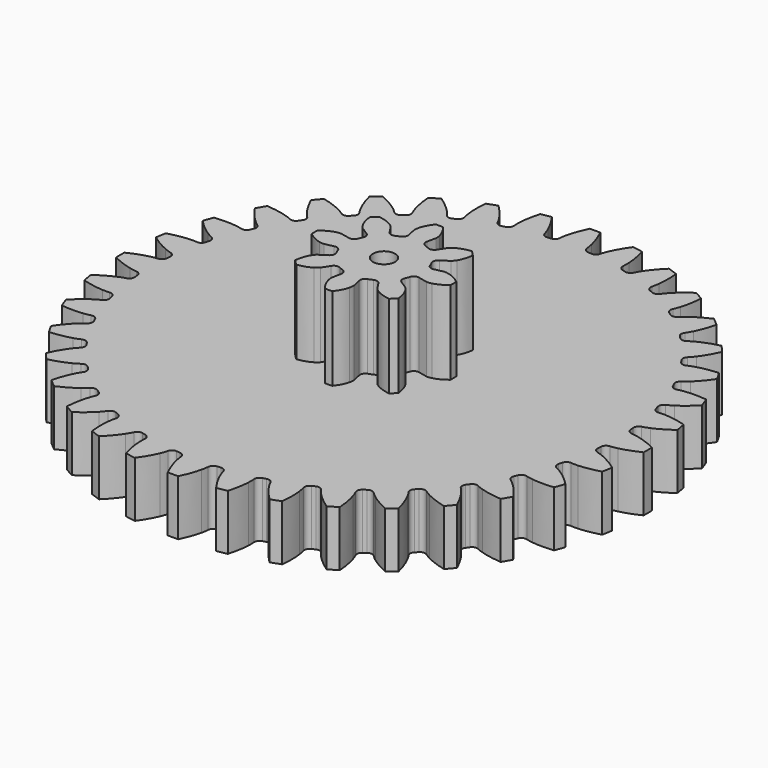
from build123d import *

# Parameters (mm, degrees)
PAD001_DEPTH         = 10
PAD002_DEPTH         = 15
SKETCH002_R          = 2
POCKET001_DEPTH      = 10.001
POCKET001_DEPTH_BACK = 15.001


with BuildPart() as part:
    # InvoluteGear001 → Pad001 (new body)
    with BuildSketch(Plane.XY):
        with BuildLine():
            add(Edge.make_bspline(
                [(42.63134, -2.459207), (42.913539, -2.435969), (43.336154, -2.380973), (43.893235, -2.253686)],
                knots=[0, 0, 0, 0, 1, 1, 1, 1], degree=3))
            add(Edge.make_bspline(
                [(43.893235, -2.253686), (44.783579, -2.049807), (46.002896, -1.664571), (47.492369, -0.940242)],
                knots=[0, 0, 0, 0, 1, 1, 1, 1], degree=3))
            ThreePointArc((47.492369, -0.940242), (47.500838, 0.000316), (47.490681, 0.940857))
            add(Edge.make_bspline(
                [(47.490681, 0.940857), (46.002896, 1.664571), (44.783579, 2.049807), (43.893235, 2.253686)],
                knots=[0, 0, 0, 0, 1, 1, 1, 1], degree=3))
            add(Edge.make_bspline(
                [(43.893235, 2.253686), (43.336154, 2.380973), (42.913539, 2.435969), (42.631611, 2.459172)],
                knots=[0, 0, 0, 0, 1, 1, 1, 1], degree=3))
            ThreePointArc((42.631611, 2.459172), (42.023456, 2.729743), (41.742145, 3.333006))
            ThreePointArc((41.742145, 3.333006), (41.715653, 3.649647), (41.686759, 3.966077))
            ThreePointArc((41.686759, 3.966077), (41.858969, 4.608903), (42.41071, 4.981008))
            add(Edge.make_bspline(
                [(42.41071, 4.981008), (42.684588, 5.052897), (43.091232, 5.180444), (43.617747, 5.402533)],
                knots=[0, 0, 0, 0, 1, 1, 1, 1], degree=3))
            add(Edge.make_bspline(
                [(43.617747, 5.402533), (44.459161, 5.757922), (45.593058, 6.349037), (46.934125, 7.321006)],
                knots=[0, 0, 0, 0, 1, 1, 1, 1], degree=3))
            ThreePointArc((46.934125, 7.321006), (46.779139, 8.248745), (46.605813, 9.173234))
            add(Edge.make_bspline(
                [(46.605813, 9.173234), (45.014959, 9.627601), (43.747271, 9.795252), (42.83505, 9.841428)],
                knots=[0, 0, 0, 0, 1, 1, 1, 1], degree=3))
            add(Edge.make_bspline(
                [(42.83505, 9.841428), (42.264329, 9.870045), (41.838585, 9.850819), (41.556911, 9.824713)],
                knots=[0, 0, 0, 0, 1, 1, 1, 1], degree=3))
            ThreePointArc((41.556911, 9.824713), (40.91101, 9.985569), (40.529218, 10.530818))
            ThreePointArc((40.529218, 10.530818), (40.448144, 10.838048), (40.364741, 11.144653))
            ThreePointArc((40.364741, 11.144653), (40.422709, 11.807617), (40.901453, 12.269878))
            add(Edge.make_bspline(
                [(40.901453, 12.269878), (41.158687, 12.388233), (41.537004, 12.584455), (42.016955, 12.894598)],
                knots=[0, 0, 0, 0, 1, 1, 1, 1], degree=3))
            add(Edge.make_bspline(
                [(42.016955, 12.894598), (42.783874, 13.390698), (43.797899, 14.169732), (44.94981, 15.359809)],
                knots=[0, 0, 0, 0, 1, 1, 1, 1], degree=3))
            ThreePointArc((44.94981, 15.359809), (44.636079, 16.24654), (44.30485, 17.126886))
            add(Edge.make_bspline(
                [(44.30485, 17.126886), (42.659265, 17.298102), (41.381724, 17.243074), (40.475343, 17.130143)],
                knots=[0, 0, 0, 0, 1, 1, 1, 1], degree=3))
            add(Edge.make_bspline(
                [(40.475343, 17.130143), (39.908323, 17.05922), (39.492386, 16.966357), (39.219524, 16.891735)],
                knots=[0, 0, 0, 0, 1, 1, 1, 1], degree=3))
            ThreePointArc((39.219524, 16.891735), (38.555504, 16.937988), (38.084831, 17.408656))
            ThreePointArc((38.084831, 17.408656), (37.951639, 17.69714), (37.816261, 17.984604))
            ThreePointArc((37.816261, 17.984604), (37.758226, 18.647563), (38.149426, 19.185934))
            add(Edge.make_bspline(
                [(38.149426, 19.185934), (38.3822, 19.347159), (38.720696, 19.606094), (39.1395, 19.994868)],
                knots=[0, 0, 0, 0, 1, 1, 1, 1], degree=3))
            add(Edge.make_bspline(
                [(39.1395, 19.994868), (39.80862, 20.616605), (40.671962, 21.559887), (41.599719, 22.931911)],
                knots=[0, 0, 0, 0, 1, 1, 1, 1], degree=3))
            ThreePointArc((41.599719, 22.931911), (41.136774, 23.750693), (40.657708, 24.560147))
            add(Edge.make_bspline(
                [(40.657708, 24.560147), (39.007391, 24.443008), (37.758814, 24.166974), (36.885814, 23.898367)],
                knots=[0, 0, 0, 0, 1, 1, 1, 1], degree=3))
            add(Edge.make_bspline(
                [(36.885814, 23.898367), (36.339724, 23.73006), (35.946231, 23.566381), (35.690473, 23.445511)],
                knots=[0, 0, 0, 0, 1, 1, 1, 1], degree=3))
            ThreePointArc((35.690473, 23.445511), (35.028509, 23.375755), (34.483255, 23.757541))
            ThreePointArc((34.483255, 23.757541), (34.301992, 24.018513), (34.118754, 24.278103))
            ThreePointArc((34.118754, 24.278103), (33.946479, 24.920911), (34.238248, 25.519035))
            add(Edge.make_bspline(
                [(34.238248, 25.519035), (34.439489, 25.718231), (34.727879, 26.032012), (35.072811, 26.487604)],
                knots=[0, 0, 0, 0, 1, 1, 1, 1], degree=3))
            add(Edge.make_bspline(
                [(35.072811, 26.487604), (35.623802, 27.216087), (36.310228, 28.294956), (36.985641, 29.807239)],
                knots=[0, 0, 0, 0, 1, 1, 1, 1], degree=3))
            ThreePointArc((36.985641, 29.807239), (36.38755, 30.533192), (35.775201, 31.24716))
            add(Edge.make_bspline(
                [(35.775201, 31.24716), (34.170297, 30.845227), (32.988622, 30.356573), (32.175528, 29.940452)],
                knots=[0, 0, 0, 0, 1, 1, 1, 1], degree=3))
            add(Edge.make_bspline(
                [(32.175528, 29.940452), (31.66696, 29.679874), (31.307868, 29.450352), (31.076984, 29.286906)],
                knots=[0, 0, 0, 0, 1, 1, 1, 1], degree=3))
            ThreePointArc((31.076984, 29.286906), (30.43719, 29.103261), (29.833923, 29.384565))
            ThreePointArc((29.833923, 29.384565), (29.610096, 29.610096), (29.384565, 29.833923))
            ThreePointArc((29.384565, 29.833923), (29.103285, 30.437051), (29.286759, 31.076753))
            add(Edge.make_bspline(
                [(29.286759, 31.076753), (29.450352, 31.307868), (29.679874, 31.66696), (29.940452, 32.175528)],
                knots=[0, 0, 0, 0, 1, 1, 1, 1], degree=3))
            add(Edge.make_bspline(
                [(29.940452, 32.175528), (30.356573, 32.988622), (30.845227, 34.170297), (31.247773, 35.77689)],
                knots=[0, 0, 0, 0, 1, 1, 1, 1], degree=3))
            ThreePointArc((31.247773, 35.77689), (30.532708, 36.387956), (29.805683, 36.984744))
            add(Edge.make_bspline(
                [(29.805683, 36.984744), (28.294956, 36.310228), (27.216087, 35.623802), (26.487604, 35.072811)],
                knots=[0, 0, 0, 0, 1, 1, 1, 1], degree=3))
            add(Edge.make_bspline(
                [(26.487604, 35.072811), (26.032012, 34.727879), (25.718231, 34.439489), (25.519237, 34.238434)],
                knots=[0, 0, 0, 0, 1, 1, 1, 1], degree=3))
            ThreePointArc((25.519237, 34.238434), (24.921052, 33.94648), (24.278103, 34.118754))
            ThreePointArc((24.278103, 34.118754), (24.018513, 34.301992), (23.757541, 34.483255))
            ThreePointArc((23.757541, 34.483255), (23.375802, 35.028376), (23.445405, 35.69022))
            add(Edge.make_bspline(
                [(23.445405, 35.69022), (23.566381, 35.946231), (23.73006, 36.339724), (23.898367, 36.885814)],
                knots=[0, 0, 0, 0, 1, 1, 1, 1], degree=3))
            add(Edge.make_bspline(
                [(23.898367, 36.885814), (24.166974, 37.758814), (24.443008, 39.007391), (24.560458, 40.659477)],
                knots=[0, 0, 0, 0, 1, 1, 1, 1], degree=3))
            ThreePointArc((24.560458, 40.659477), (23.750145, 41.13709), (22.930534, 41.598565))
            add(Edge.make_bspline(
                [(22.930534, 41.598565), (21.559887, 40.671962), (20.616605, 39.80862), (19.994868, 39.1395)],
                knots=[0, 0, 0, 0, 1, 1, 1, 1], degree=3))
            add(Edge.make_bspline(
                [(19.994868, 39.1395), (19.606094, 38.720696), (19.347159, 38.3822), (19.186101, 38.149644)],
                knots=[0, 0, 0, 0, 1, 1, 1, 1], degree=3))
            ThreePointArc((19.186101, 38.149644), (18.647701, 37.758252), (17.984604, 37.816261))
            ThreePointArc((17.984604, 37.816261), (17.69714, 37.951639), (17.408656, 38.084831))
            ThreePointArc((17.408656, 38.084831), (16.938057, 38.555382), (16.891675, 39.219257))
            add(Edge.make_bspline(
                [(16.891675, 39.219257), (16.966357, 39.492386), (17.05922, 39.908323), (17.130143, 40.475343)],
                knots=[0, 0, 0, 0, 1, 1, 1, 1], degree=3))
            add(Edge.make_bspline(
                [(17.130143, 40.475343), (17.243074, 41.381724), (17.298102, 42.659265), (17.126885, 44.306647)],
                knots=[0, 0, 0, 0, 1, 1, 1, 1], degree=3))
            ThreePointArc((17.126885, 44.306647), (16.245946, 44.636295), (15.358653, 44.948435))
            add(Edge.make_bspline(
                [(15.358653, 44.948435), (14.169732, 43.797899), (13.390698, 42.783874), (12.894598, 42.016955)],
                knots=[0, 0, 0, 0, 1, 1, 1, 1], degree=3))
            add(Edge.make_bspline(
                [(12.894598, 42.016955), (12.584455, 41.537004), (12.388233, 41.158687), (12.270004, 40.901697)],
                knots=[0, 0, 0, 0, 1, 1, 1, 1], degree=3))
            ThreePointArc((12.270004, 40.901697), (11.807749, 40.422758), (11.144653, 40.364741))
            ThreePointArc((11.144653, 40.364741), (10.838048, 40.448144), (10.530818, 40.529218))
            ThreePointArc((10.530818, 40.529218), (9.985658, 40.910902), (9.8247, 41.556637))
            add(Edge.make_bspline(
                [(9.8247, 41.556637), (9.850819, 41.838585), (9.870045, 42.264329), (9.841428, 42.83505)],
                knots=[0, 0, 0, 0, 1, 1, 1, 1], degree=3))
            add(Edge.make_bspline(
                [(9.841428, 42.83505), (9.795252, 43.747271), (9.627601, 45.014959), (9.172921, 46.607582)],
                knots=[0, 0, 0, 0, 1, 1, 1, 1], degree=3))
            ThreePointArc((9.172921, 46.607582), (8.248123, 46.779248), (7.320107, 46.932569))
            add(Edge.make_bspline(
                [(7.320107, 46.932569), (6.349037, 45.593058), (5.757922, 44.459161), (5.402533, 43.617747)],
                knots=[0, 0, 0, 0, 1, 1, 1, 1], degree=3))
            add(Edge.make_bspline(
                [(5.402533, 43.617747), (5.180444, 43.091232), (5.052897, 42.684588), (4.98109, 42.410972)],
                knots=[0, 0, 0, 0, 1, 1, 1, 1], degree=3))
            ThreePointArc((4.98109, 42.410972), (4.609024, 41.85904), (3.966077, 41.686759))
            ThreePointArc((3.966077, 41.686759), (3.649647, 41.715653), (3.333006, 41.742145))
            ThreePointArc((3.333006, 41.742145), (2.72985, 42.023364), (2.459207, 42.63134))
            add(Edge.make_bspline(
                [(2.459207, 42.63134), (2.435969, 42.913539), (2.380973, 43.336154), (2.253686, 43.893235)],
                knots=[0, 0, 0, 0, 1, 1, 1, 1], degree=3))
            add(Edge.make_bspline(
                [(2.253686, 43.893235), (2.049807, 44.783579), (1.664571, 46.002896), (0.940242, 47.492369)],
                knots=[0, 0, 0, 0, 1, 1, 1, 1], degree=3))
            ThreePointArc((0.940242, 47.492369), (-0.000316, 47.500838), (-0.940857, 47.490681))
            add(Edge.make_bspline(
                [(-0.940857, 47.490681), (-1.664571, 46.002896), (-2.049807, 44.783579), (-2.253686, 43.893235)],
                knots=[0, 0, 0, 0, 1, 1, 1, 1], degree=3))
            add(Edge.make_bspline(
                [(-2.253686, 43.893235), (-2.380973, 43.336154), (-2.435969, 42.913539), (-2.459172, 42.631611)],
                knots=[0, 0, 0, 0, 1, 1, 1, 1], degree=3))
            ThreePointArc((-2.459172, 42.631611), (-2.729743, 42.023456), (-3.333006, 41.742145))
            ThreePointArc((-3.333006, 41.742145), (-3.649647, 41.715653), (-3.966077, 41.686759))
            ThreePointArc((-3.966077, 41.686759), (-4.608903, 41.858969), (-4.981008, 42.41071))
            add(Edge.make_bspline(
                [(-4.981008, 42.41071), (-5.052897, 42.684588), (-5.180444, 43.091232), (-5.402533, 43.617747)],
                knots=[0, 0, 0, 0, 1, 1, 1, 1], degree=3))
            add(Edge.make_bspline(
                [(-5.402533, 43.617747), (-5.757922, 44.459161), (-6.349037, 45.593058), (-7.321006, 46.934125)],
                knots=[0, 0, 0, 0, 1, 1, 1, 1], degree=3))
            ThreePointArc((-7.321006, 46.934125), (-8.248745, 46.779139), (-9.173234, 46.605813))
            add(Edge.make_bspline(
                [(-9.173234, 46.605813), (-9.627601, 45.014959), (-9.795252, 43.747271), (-9.841428, 42.83505)],
                knots=[0, 0, 0, 0, 1, 1, 1, 1], degree=3))
            add(Edge.make_bspline(
                [(-9.841428, 42.83505), (-9.870045, 42.264329), (-9.850819, 41.838585), (-9.824713, 41.556911)],
                knots=[0, 0, 0, 0, 1, 1, 1, 1], degree=3))
            ThreePointArc((-9.824713, 41.556911), (-9.985569, 40.91101), (-10.530818, 40.529218))
            ThreePointArc((-10.530818, 40.529218), (-10.838048, 40.448144), (-11.144653, 40.364741))
            ThreePointArc((-11.144653, 40.364741), (-11.807617, 40.422709), (-12.269878, 40.901453))
            add(Edge.make_bspline(
                [(-12.269878, 40.901453), (-12.388233, 41.158687), (-12.584455, 41.537004), (-12.894598, 42.016955)],
                knots=[0, 0, 0, 0, 1, 1, 1, 1], degree=3))
            add(Edge.make_bspline(
                [(-12.894598, 42.016955), (-13.390698, 42.783874), (-14.169732, 43.797899), (-15.359809, 44.94981)],
                knots=[0, 0, 0, 0, 1, 1, 1, 1], degree=3))
            ThreePointArc((-15.359809, 44.94981), (-16.24654, 44.636079), (-17.126886, 44.30485))
            add(Edge.make_bspline(
                [(-17.126886, 44.30485), (-17.298102, 42.659265), (-17.243074, 41.381724), (-17.130143, 40.475343)],
                knots=[0, 0, 0, 0, 1, 1, 1, 1], degree=3))
            add(Edge.make_bspline(
                [(-17.130143, 40.475343), (-17.05922, 39.908323), (-16.966357, 39.492386), (-16.891735, 39.219524)],
                knots=[0, 0, 0, 0, 1, 1, 1, 1], degree=3))
            ThreePointArc((-16.891735, 39.219524), (-16.937988, 38.555504), (-17.408656, 38.084831))
            ThreePointArc((-17.408656, 38.084831), (-17.69714, 37.951639), (-17.984604, 37.816261))
            ThreePointArc((-17.984604, 37.816261), (-18.647563, 37.758226), (-19.185934, 38.149426))
            add(Edge.make_bspline(
                [(-19.185934, 38.149426), (-19.347159, 38.3822), (-19.606094, 38.720696), (-19.994868, 39.1395)],
                knots=[0, 0, 0, 0, 1, 1, 1, 1], degree=3))
            add(Edge.make_bspline(
                [(-19.994868, 39.1395), (-20.616605, 39.80862), (-21.559887, 40.671962), (-22.931911, 41.599719)],
                knots=[0, 0, 0, 0, 1, 1, 1, 1], degree=3))
            ThreePointArc((-22.931911, 41.599719), (-23.750693, 41.136774), (-24.560147, 40.657708))
            add(Edge.make_bspline(
                [(-24.560147, 40.657708), (-24.443008, 39.007391), (-24.166974, 37.758814), (-23.898367, 36.885814)],
                knots=[0, 0, 0, 0, 1, 1, 1, 1], degree=3))
            add(Edge.make_bspline(
                [(-23.898367, 36.885814), (-23.73006, 36.339724), (-23.566381, 35.946231), (-23.445511, 35.690473)],
                knots=[0, 0, 0, 0, 1, 1, 1, 1], degree=3))
            ThreePointArc((-23.445511, 35.690473), (-23.375755, 35.028509), (-23.757541, 34.483255))
            ThreePointArc((-23.757541, 34.483255), (-24.018513, 34.301992), (-24.278103, 34.118754))
            ThreePointArc((-24.278103, 34.118754), (-24.920911, 33.946479), (-25.519035, 34.238248))
            add(Edge.make_bspline(
                [(-25.519035, 34.238248), (-25.718231, 34.439489), (-26.032012, 34.727879), (-26.487604, 35.072811)],
                knots=[0, 0, 0, 0, 1, 1, 1, 1], degree=3))
            add(Edge.make_bspline(
                [(-26.487604, 35.072811), (-27.216087, 35.623802), (-28.294956, 36.310228), (-29.807239, 36.985641)],
                knots=[0, 0, 0, 0, 1, 1, 1, 1], degree=3))
            ThreePointArc((-29.807239, 36.985641), (-30.533192, 36.38755), (-31.24716, 35.775201))
            add(Edge.make_bspline(
                [(-31.24716, 35.775201), (-30.845227, 34.170297), (-30.356573, 32.988622), (-29.940452, 32.175528)],
                knots=[0, 0, 0, 0, 1, 1, 1, 1], degree=3))
            add(Edge.make_bspline(
                [(-29.940452, 32.175528), (-29.679874, 31.66696), (-29.450352, 31.307868), (-29.286906, 31.076984)],
                knots=[0, 0, 0, 0, 1, 1, 1, 1], degree=3))
            ThreePointArc((-29.286906, 31.076984), (-29.103261, 30.43719), (-29.384565, 29.833923))
            ThreePointArc((-29.384565, 29.833923), (-29.610096, 29.610096), (-29.833923, 29.384565))
            ThreePointArc((-29.833923, 29.384565), (-30.437051, 29.103285), (-31.076753, 29.286759))
            add(Edge.make_bspline(
                [(-31.076753, 29.286759), (-31.307868, 29.450352), (-31.66696, 29.679874), (-32.175528, 29.940452)],
                knots=[0, 0, 0, 0, 1, 1, 1, 1], degree=3))
            add(Edge.make_bspline(
                [(-32.175528, 29.940452), (-32.988622, 30.356573), (-34.170297, 30.845227), (-35.77689, 31.247773)],
                knots=[0, 0, 0, 0, 1, 1, 1, 1], degree=3))
            ThreePointArc((-35.77689, 31.247773), (-36.387956, 30.532708), (-36.984744, 29.805683))
            add(Edge.make_bspline(
                [(-36.984744, 29.805683), (-36.310228, 28.294956), (-35.623802, 27.216087), (-35.072811, 26.487604)],
                knots=[0, 0, 0, 0, 1, 1, 1, 1], degree=3))
            add(Edge.make_bspline(
                [(-35.072811, 26.487604), (-34.727879, 26.032012), (-34.439489, 25.718231), (-34.238434, 25.519237)],
                knots=[0, 0, 0, 0, 1, 1, 1, 1], degree=3))
            ThreePointArc((-34.238434, 25.519237), (-33.94648, 24.921052), (-34.118754, 24.278103))
            ThreePointArc((-34.118754, 24.278103), (-34.301992, 24.018513), (-34.483255, 23.757541))
            ThreePointArc((-34.483255, 23.757541), (-35.028376, 23.375802), (-35.69022, 23.445405))
            add(Edge.make_bspline(
                [(-35.69022, 23.445405), (-35.946231, 23.566381), (-36.339724, 23.73006), (-36.885814, 23.898367)],
                knots=[0, 0, 0, 0, 1, 1, 1, 1], degree=3))
            add(Edge.make_bspline(
                [(-36.885814, 23.898367), (-37.758814, 24.166974), (-39.007391, 24.443008), (-40.659477, 24.560458)],
                knots=[0, 0, 0, 0, 1, 1, 1, 1], degree=3))
            ThreePointArc((-40.659477, 24.560458), (-41.13709, 23.750145), (-41.598565, 22.930534))
            add(Edge.make_bspline(
                [(-41.598565, 22.930534), (-40.671962, 21.559887), (-39.80862, 20.616605), (-39.1395, 19.994868)],
                knots=[0, 0, 0, 0, 1, 1, 1, 1], degree=3))
            add(Edge.make_bspline(
                [(-39.1395, 19.994868), (-38.720696, 19.606094), (-38.3822, 19.347159), (-38.149644, 19.186101)],
                knots=[0, 0, 0, 0, 1, 1, 1, 1], degree=3))
            ThreePointArc((-38.149644, 19.186101), (-37.758252, 18.647701), (-37.816261, 17.984604))
            ThreePointArc((-37.816261, 17.984604), (-37.951639, 17.69714), (-38.084831, 17.408656))
            ThreePointArc((-38.084831, 17.408656), (-38.555382, 16.938057), (-39.219257, 16.891675))
            add(Edge.make_bspline(
                [(-39.219257, 16.891675), (-39.492386, 16.966357), (-39.908323, 17.05922), (-40.475343, 17.130143)],
                knots=[0, 0, 0, 0, 1, 1, 1, 1], degree=3))
            add(Edge.make_bspline(
                [(-40.475343, 17.130143), (-41.381724, 17.243074), (-42.659265, 17.298102), (-44.306647, 17.126885)],
                knots=[0, 0, 0, 0, 1, 1, 1, 1], degree=3))
            ThreePointArc((-44.306647, 17.126885), (-44.636295, 16.245946), (-44.948435, 15.358653))
            add(Edge.make_bspline(
                [(-44.948435, 15.358653), (-43.797899, 14.169732), (-42.783874, 13.390698), (-42.016955, 12.894598)],
                knots=[0, 0, 0, 0, 1, 1, 1, 1], degree=3))
            add(Edge.make_bspline(
                [(-42.016955, 12.894598), (-41.537004, 12.584455), (-41.158687, 12.388233), (-40.901697, 12.270004)],
                knots=[0, 0, 0, 0, 1, 1, 1, 1], degree=3))
            ThreePointArc((-40.901697, 12.270004), (-40.422758, 11.807749), (-40.364741, 11.144653))
            ThreePointArc((-40.364741, 11.144653), (-40.448144, 10.838048), (-40.529218, 10.530818))
            ThreePointArc((-40.529218, 10.530818), (-40.910902, 9.985658), (-41.556637, 9.8247))
            add(Edge.make_bspline(
                [(-41.556637, 9.8247), (-41.838585, 9.850819), (-42.264329, 9.870045), (-42.83505, 9.841428)],
                knots=[0, 0, 0, 0, 1, 1, 1, 1], degree=3))
            add(Edge.make_bspline(
                [(-42.83505, 9.841428), (-43.747271, 9.795252), (-45.014959, 9.627601), (-46.607582, 9.172921)],
                knots=[0, 0, 0, 0, 1, 1, 1, 1], degree=3))
            ThreePointArc((-46.607582, 9.172921), (-46.779248, 8.248123), (-46.932569, 7.320107))
            add(Edge.make_bspline(
                [(-46.932569, 7.320107), (-45.593058, 6.349037), (-44.459161, 5.757922), (-43.617747, 5.402533)],
                knots=[0, 0, 0, 0, 1, 1, 1, 1], degree=3))
            add(Edge.make_bspline(
                [(-43.617747, 5.402533), (-43.091232, 5.180444), (-42.684588, 5.052897), (-42.410972, 4.98109)],
                knots=[0, 0, 0, 0, 1, 1, 1, 1], degree=3))
            ThreePointArc((-42.410972, 4.98109), (-41.85904, 4.609024), (-41.686759, 3.966077))
            ThreePointArc((-41.686759, 3.966077), (-41.715653, 3.649647), (-41.742145, 3.333006))
            ThreePointArc((-41.742145, 3.333006), (-42.023364, 2.72985), (-42.63134, 2.459207))
            add(Edge.make_bspline(
                [(-42.63134, 2.459207), (-42.913539, 2.435969), (-43.336154, 2.380973), (-43.893235, 2.253686)],
                knots=[0, 0, 0, 0, 1, 1, 1, 1], degree=3))
            add(Edge.make_bspline(
                [(-43.893235, 2.253686), (-44.783579, 2.049807), (-46.002896, 1.664571), (-47.492369, 0.940242)],
                knots=[0, 0, 0, 0, 1, 1, 1, 1], degree=3))
            ThreePointArc((-47.492369, 0.940242), (-47.500838, -0.000316), (-47.490681, -0.940857))
            add(Edge.make_bspline(
                [(-47.490681, -0.940857), (-46.002896, -1.664571), (-44.783579, -2.049807), (-43.893235, -2.253686)],
                knots=[0, 0, 0, 0, 1, 1, 1, 1], degree=3))
            add(Edge.make_bspline(
                [(-43.893235, -2.253686), (-43.336154, -2.380973), (-42.913539, -2.435969), (-42.631611, -2.459172)],
                knots=[0, 0, 0, 0, 1, 1, 1, 1], degree=3))
            ThreePointArc((-42.631611, -2.459172), (-42.023456, -2.729743), (-41.742145, -3.333006))
            ThreePointArc((-41.742145, -3.333006), (-41.715653, -3.649647), (-41.686759, -3.966077))
            ThreePointArc((-41.686759, -3.966077), (-41.858969, -4.608903), (-42.41071, -4.981008))
            add(Edge.make_bspline(
                [(-42.41071, -4.981008), (-42.684588, -5.052897), (-43.091232, -5.180444), (-43.617747, -5.402533)],
                knots=[0, 0, 0, 0, 1, 1, 1, 1], degree=3))
            add(Edge.make_bspline(
                [(-43.617747, -5.402533), (-44.459161, -5.757922), (-45.593058, -6.349037), (-46.934125, -7.321006)],
                knots=[0, 0, 0, 0, 1, 1, 1, 1], degree=3))
            ThreePointArc((-46.934125, -7.321006), (-46.779139, -8.248745), (-46.605813, -9.173234))
            add(Edge.make_bspline(
                [(-46.605813, -9.173234), (-45.014959, -9.627601), (-43.747271, -9.795252), (-42.83505, -9.841428)],
                knots=[0, 0, 0, 0, 1, 1, 1, 1], degree=3))
            add(Edge.make_bspline(
                [(-42.83505, -9.841428), (-42.264329, -9.870045), (-41.838585, -9.850819), (-41.556911, -9.824713)],
                knots=[0, 0, 0, 0, 1, 1, 1, 1], degree=3))
            ThreePointArc((-41.556911, -9.824713), (-40.91101, -9.985569), (-40.529218, -10.530818))
            ThreePointArc((-40.529218, -10.530818), (-40.448144, -10.838048), (-40.364741, -11.144653))
            ThreePointArc((-40.364741, -11.144653), (-40.422709, -11.807617), (-40.901453, -12.269878))
            add(Edge.make_bspline(
                [(-40.901453, -12.269878), (-41.158687, -12.388233), (-41.537004, -12.584455), (-42.016955, -12.894598)],
                knots=[0, 0, 0, 0, 1, 1, 1, 1], degree=3))
            add(Edge.make_bspline(
                [(-42.016955, -12.894598), (-42.783874, -13.390698), (-43.797899, -14.169732), (-44.94981, -15.359809)],
                knots=[0, 0, 0, 0, 1, 1, 1, 1], degree=3))
            ThreePointArc((-44.94981, -15.359809), (-44.636079, -16.24654), (-44.30485, -17.126886))
            add(Edge.make_bspline(
                [(-44.30485, -17.126886), (-42.659265, -17.298102), (-41.381724, -17.243074), (-40.475343, -17.130143)],
                knots=[0, 0, 0, 0, 1, 1, 1, 1], degree=3))
            add(Edge.make_bspline(
                [(-40.475343, -17.130143), (-39.908323, -17.05922), (-39.492386, -16.966357), (-39.219524, -16.891735)],
                knots=[0, 0, 0, 0, 1, 1, 1, 1], degree=3))
            ThreePointArc((-39.219524, -16.891735), (-38.555504, -16.937988), (-38.084831, -17.408656))
            ThreePointArc((-38.084831, -17.408656), (-37.951639, -17.69714), (-37.816261, -17.984604))
            ThreePointArc((-37.816261, -17.984604), (-37.758226, -18.647563), (-38.149426, -19.185934))
            add(Edge.make_bspline(
                [(-38.149426, -19.185934), (-38.3822, -19.347159), (-38.720696, -19.606094), (-39.1395, -19.994868)],
                knots=[0, 0, 0, 0, 1, 1, 1, 1], degree=3))
            add(Edge.make_bspline(
                [(-39.1395, -19.994868), (-39.80862, -20.616605), (-40.671962, -21.559887), (-41.599719, -22.931911)],
                knots=[0, 0, 0, 0, 1, 1, 1, 1], degree=3))
            ThreePointArc((-41.599719, -22.931911), (-41.136774, -23.750693), (-40.657708, -24.560147))
            add(Edge.make_bspline(
                [(-40.657708, -24.560147), (-39.007391, -24.443008), (-37.758814, -24.166974), (-36.885814, -23.898367)],
                knots=[0, 0, 0, 0, 1, 1, 1, 1], degree=3))
            add(Edge.make_bspline(
                [(-36.885814, -23.898367), (-36.339724, -23.73006), (-35.946231, -23.566381), (-35.690473, -23.445511)],
                knots=[0, 0, 0, 0, 1, 1, 1, 1], degree=3))
            ThreePointArc((-35.690473, -23.445511), (-35.028509, -23.375755), (-34.483255, -23.757541))
            ThreePointArc((-34.483255, -23.757541), (-34.301992, -24.018513), (-34.118754, -24.278103))
            ThreePointArc((-34.118754, -24.278103), (-33.946479, -24.920911), (-34.238248, -25.519035))
            add(Edge.make_bspline(
                [(-34.238248, -25.519035), (-34.439489, -25.718231), (-34.727879, -26.032012), (-35.072811, -26.487604)],
                knots=[0, 0, 0, 0, 1, 1, 1, 1], degree=3))
            add(Edge.make_bspline(
                [(-35.072811, -26.487604), (-35.623802, -27.216087), (-36.310228, -28.294956), (-36.985641, -29.807239)],
                knots=[0, 0, 0, 0, 1, 1, 1, 1], degree=3))
            ThreePointArc((-36.985641, -29.807239), (-36.38755, -30.533192), (-35.775201, -31.24716))
            add(Edge.make_bspline(
                [(-35.775201, -31.24716), (-34.170297, -30.845227), (-32.988622, -30.356573), (-32.175528, -29.940452)],
                knots=[0, 0, 0, 0, 1, 1, 1, 1], degree=3))
            add(Edge.make_bspline(
                [(-32.175528, -29.940452), (-31.66696, -29.679874), (-31.307868, -29.450352), (-31.076984, -29.286906)],
                knots=[0, 0, 0, 0, 1, 1, 1, 1], degree=3))
            ThreePointArc((-31.076984, -29.286906), (-30.43719, -29.103261), (-29.833923, -29.384565))
            ThreePointArc((-29.833923, -29.384565), (-29.610096, -29.610096), (-29.384565, -29.833923))
            ThreePointArc((-29.384565, -29.833923), (-29.103285, -30.437051), (-29.286759, -31.076753))
            add(Edge.make_bspline(
                [(-29.286759, -31.076753), (-29.450352, -31.307868), (-29.679874, -31.66696), (-29.940452, -32.175528)],
                knots=[0, 0, 0, 0, 1, 1, 1, 1], degree=3))
            add(Edge.make_bspline(
                [(-29.940452, -32.175528), (-30.356573, -32.988622), (-30.845227, -34.170297), (-31.247773, -35.77689)],
                knots=[0, 0, 0, 0, 1, 1, 1, 1], degree=3))
            ThreePointArc((-31.247773, -35.77689), (-30.532708, -36.387956), (-29.805683, -36.984744))
            add(Edge.make_bspline(
                [(-29.805683, -36.984744), (-28.294956, -36.310228), (-27.216087, -35.623802), (-26.487604, -35.072811)],
                knots=[0, 0, 0, 0, 1, 1, 1, 1], degree=3))
            add(Edge.make_bspline(
                [(-26.487604, -35.072811), (-26.032012, -34.727879), (-25.718231, -34.439489), (-25.519237, -34.238434)],
                knots=[0, 0, 0, 0, 1, 1, 1, 1], degree=3))
            ThreePointArc((-25.519237, -34.238434), (-24.921052, -33.94648), (-24.278103, -34.118754))
            ThreePointArc((-24.278103, -34.118754), (-24.018513, -34.301992), (-23.757541, -34.483255))
            ThreePointArc((-23.757541, -34.483255), (-23.375802, -35.028376), (-23.445405, -35.69022))
            add(Edge.make_bspline(
                [(-23.445405, -35.69022), (-23.566381, -35.946231), (-23.73006, -36.339724), (-23.898367, -36.885814)],
                knots=[0, 0, 0, 0, 1, 1, 1, 1], degree=3))
            add(Edge.make_bspline(
                [(-23.898367, -36.885814), (-24.166974, -37.758814), (-24.443008, -39.007391), (-24.560458, -40.659477)],
                knots=[0, 0, 0, 0, 1, 1, 1, 1], degree=3))
            ThreePointArc((-24.560458, -40.659477), (-23.750145, -41.13709), (-22.930534, -41.598565))
            add(Edge.make_bspline(
                [(-22.930534, -41.598565), (-21.559887, -40.671962), (-20.616605, -39.80862), (-19.994868, -39.1395)],
                knots=[0, 0, 0, 0, 1, 1, 1, 1], degree=3))
            add(Edge.make_bspline(
                [(-19.994868, -39.1395), (-19.606094, -38.720696), (-19.347159, -38.3822), (-19.186101, -38.149644)],
                knots=[0, 0, 0, 0, 1, 1, 1, 1], degree=3))
            ThreePointArc((-19.186101, -38.149644), (-18.647701, -37.758252), (-17.984604, -37.816261))
            ThreePointArc((-17.984604, -37.816261), (-17.69714, -37.951639), (-17.408656, -38.084831))
            ThreePointArc((-17.408656, -38.084831), (-16.938057, -38.555382), (-16.891675, -39.219257))
            add(Edge.make_bspline(
                [(-16.891675, -39.219257), (-16.966357, -39.492386), (-17.05922, -39.908323), (-17.130143, -40.475343)],
                knots=[0, 0, 0, 0, 1, 1, 1, 1], degree=3))
            add(Edge.make_bspline(
                [(-17.130143, -40.475343), (-17.243074, -41.381724), (-17.298102, -42.659265), (-17.126885, -44.306647)],
                knots=[0, 0, 0, 0, 1, 1, 1, 1], degree=3))
            ThreePointArc((-17.126885, -44.306647), (-16.245946, -44.636295), (-15.358653, -44.948435))
            add(Edge.make_bspline(
                [(-15.358653, -44.948435), (-14.169732, -43.797899), (-13.390698, -42.783874), (-12.894598, -42.016955)],
                knots=[0, 0, 0, 0, 1, 1, 1, 1], degree=3))
            add(Edge.make_bspline(
                [(-12.894598, -42.016955), (-12.584455, -41.537004), (-12.388233, -41.158687), (-12.270004, -40.901697)],
                knots=[0, 0, 0, 0, 1, 1, 1, 1], degree=3))
            ThreePointArc((-12.270004, -40.901697), (-11.807749, -40.422758), (-11.144653, -40.364741))
            ThreePointArc((-11.144653, -40.364741), (-10.838048, -40.448144), (-10.530818, -40.529218))
            ThreePointArc((-10.530818, -40.529218), (-9.985658, -40.910902), (-9.8247, -41.556637))
            add(Edge.make_bspline(
                [(-9.8247, -41.556637), (-9.850819, -41.838585), (-9.870045, -42.264329), (-9.841428, -42.83505)],
                knots=[0, 0, 0, 0, 1, 1, 1, 1], degree=3))
            add(Edge.make_bspline(
                [(-9.841428, -42.83505), (-9.795252, -43.747271), (-9.627601, -45.014959), (-9.172921, -46.607582)],
                knots=[0, 0, 0, 0, 1, 1, 1, 1], degree=3))
            ThreePointArc((-9.172921, -46.607582), (-8.248123, -46.779248), (-7.320107, -46.932569))
            add(Edge.make_bspline(
                [(-7.320107, -46.932569), (-6.349037, -45.593058), (-5.757922, -44.459161), (-5.402533, -43.617747)],
                knots=[0, 0, 0, 0, 1, 1, 1, 1], degree=3))
            add(Edge.make_bspline(
                [(-5.402533, -43.617747), (-5.180444, -43.091232), (-5.052897, -42.684588), (-4.98109, -42.410972)],
                knots=[0, 0, 0, 0, 1, 1, 1, 1], degree=3))
            ThreePointArc((-4.98109, -42.410972), (-4.609024, -41.85904), (-3.966077, -41.686759))
            ThreePointArc((-3.966077, -41.686759), (-3.649647, -41.715653), (-3.333006, -41.742145))
            ThreePointArc((-3.333006, -41.742145), (-2.72985, -42.023364), (-2.459207, -42.63134))
            add(Edge.make_bspline(
                [(-2.459207, -42.63134), (-2.435969, -42.913539), (-2.380973, -43.336154), (-2.253686, -43.893235)],
                knots=[0, 0, 0, 0, 1, 1, 1, 1], degree=3))
            add(Edge.make_bspline(
                [(-2.253686, -43.893235), (-2.049807, -44.783579), (-1.664571, -46.002896), (-0.940242, -47.492369)],
                knots=[0, 0, 0, 0, 1, 1, 1, 1], degree=3))
            ThreePointArc((-0.940242, -47.492369), (0.000316, -47.500838), (0.940857, -47.490681))
            add(Edge.make_bspline(
                [(0.940857, -47.490681), (1.664571, -46.002896), (2.049807, -44.783579), (2.253686, -43.893235)],
                knots=[0, 0, 0, 0, 1, 1, 1, 1], degree=3))
            add(Edge.make_bspline(
                [(2.253686, -43.893235), (2.380973, -43.336154), (2.435969, -42.913539), (2.459172, -42.631611)],
                knots=[0, 0, 0, 0, 1, 1, 1, 1], degree=3))
            ThreePointArc((2.459172, -42.631611), (2.729743, -42.023456), (3.333006, -41.742145))
            ThreePointArc((3.333006, -41.742145), (3.649647, -41.715653), (3.966077, -41.686759))
            ThreePointArc((3.966077, -41.686759), (4.608903, -41.858969), (4.981008, -42.41071))
            add(Edge.make_bspline(
                [(4.981008, -42.41071), (5.052897, -42.684588), (5.180444, -43.091232), (5.402533, -43.617747)],
                knots=[0, 0, 0, 0, 1, 1, 1, 1], degree=3))
            add(Edge.make_bspline(
                [(5.402533, -43.617747), (5.757922, -44.459161), (6.349037, -45.593058), (7.321006, -46.934125)],
                knots=[0, 0, 0, 0, 1, 1, 1, 1], degree=3))
            ThreePointArc((7.321006, -46.934125), (8.248745, -46.779139), (9.173234, -46.605813))
            add(Edge.make_bspline(
                [(9.173234, -46.605813), (9.627601, -45.014959), (9.795252, -43.747271), (9.841428, -42.83505)],
                knots=[0, 0, 0, 0, 1, 1, 1, 1], degree=3))
            add(Edge.make_bspline(
                [(9.841428, -42.83505), (9.870045, -42.264329), (9.850819, -41.838585), (9.824713, -41.556911)],
                knots=[0, 0, 0, 0, 1, 1, 1, 1], degree=3))
            ThreePointArc((9.824713, -41.556911), (9.985569, -40.91101), (10.530818, -40.529218))
            ThreePointArc((10.530818, -40.529218), (10.838048, -40.448144), (11.144653, -40.364741))
            ThreePointArc((11.144653, -40.364741), (11.807617, -40.422709), (12.269878, -40.901453))
            add(Edge.make_bspline(
                [(12.269878, -40.901453), (12.388233, -41.158687), (12.584455, -41.537004), (12.894598, -42.016955)],
                knots=[0, 0, 0, 0, 1, 1, 1, 1], degree=3))
            add(Edge.make_bspline(
                [(12.894598, -42.016955), (13.390698, -42.783874), (14.169732, -43.797899), (15.359809, -44.94981)],
                knots=[0, 0, 0, 0, 1, 1, 1, 1], degree=3))
            ThreePointArc((15.359809, -44.94981), (16.24654, -44.636079), (17.126886, -44.30485))
            add(Edge.make_bspline(
                [(17.126886, -44.30485), (17.298102, -42.659265), (17.243074, -41.381724), (17.130143, -40.475343)],
                knots=[0, 0, 0, 0, 1, 1, 1, 1], degree=3))
            add(Edge.make_bspline(
                [(17.130143, -40.475343), (17.05922, -39.908323), (16.966357, -39.492386), (16.891735, -39.219524)],
                knots=[0, 0, 0, 0, 1, 1, 1, 1], degree=3))
            ThreePointArc((16.891735, -39.219524), (16.937988, -38.555504), (17.408656, -38.084831))
            ThreePointArc((17.408656, -38.084831), (17.69714, -37.951639), (17.984604, -37.816261))
            ThreePointArc((17.984604, -37.816261), (18.647563, -37.758226), (19.185934, -38.149426))
            add(Edge.make_bspline(
                [(19.185934, -38.149426), (19.347159, -38.3822), (19.606094, -38.720696), (19.994868, -39.1395)],
                knots=[0, 0, 0, 0, 1, 1, 1, 1], degree=3))
            add(Edge.make_bspline(
                [(19.994868, -39.1395), (20.616605, -39.80862), (21.559887, -40.671962), (22.931911, -41.599719)],
                knots=[0, 0, 0, 0, 1, 1, 1, 1], degree=3))
            ThreePointArc((22.931911, -41.599719), (23.750693, -41.136774), (24.560147, -40.657708))
            add(Edge.make_bspline(
                [(24.560147, -40.657708), (24.443008, -39.007391), (24.166974, -37.758814), (23.898367, -36.885814)],
                knots=[0, 0, 0, 0, 1, 1, 1, 1], degree=3))
            add(Edge.make_bspline(
                [(23.898367, -36.885814), (23.73006, -36.339724), (23.566381, -35.946231), (23.445511, -35.690473)],
                knots=[0, 0, 0, 0, 1, 1, 1, 1], degree=3))
            ThreePointArc((23.445511, -35.690473), (23.375755, -35.028509), (23.757541, -34.483255))
            ThreePointArc((23.757541, -34.483255), (24.018513, -34.301992), (24.278103, -34.118754))
            ThreePointArc((24.278103, -34.118754), (24.920911, -33.946479), (25.519035, -34.238248))
            add(Edge.make_bspline(
                [(25.519035, -34.238248), (25.718231, -34.439489), (26.032012, -34.727879), (26.487604, -35.072811)],
                knots=[0, 0, 0, 0, 1, 1, 1, 1], degree=3))
            add(Edge.make_bspline(
                [(26.487604, -35.072811), (27.216087, -35.623802), (28.294956, -36.310228), (29.807239, -36.985641)],
                knots=[0, 0, 0, 0, 1, 1, 1, 1], degree=3))
            ThreePointArc((29.807239, -36.985641), (30.533192, -36.38755), (31.24716, -35.775201))
            add(Edge.make_bspline(
                [(31.24716, -35.775201), (30.845227, -34.170297), (30.356573, -32.988622), (29.940452, -32.175528)],
                knots=[0, 0, 0, 0, 1, 1, 1, 1], degree=3))
            add(Edge.make_bspline(
                [(29.940452, -32.175528), (29.679874, -31.66696), (29.450352, -31.307868), (29.286906, -31.076984)],
                knots=[0, 0, 0, 0, 1, 1, 1, 1], degree=3))
            ThreePointArc((29.286906, -31.076984), (29.103261, -30.43719), (29.384565, -29.833923))
            ThreePointArc((29.384565, -29.833923), (29.610096, -29.610096), (29.833923, -29.384565))
            ThreePointArc((29.833923, -29.384565), (30.437051, -29.103285), (31.076753, -29.286759))
            add(Edge.make_bspline(
                [(31.076753, -29.286759), (31.307868, -29.450352), (31.66696, -29.679874), (32.175528, -29.940452)],
                knots=[0, 0, 0, 0, 1, 1, 1, 1], degree=3))
            add(Edge.make_bspline(
                [(32.175528, -29.940452), (32.988622, -30.356573), (34.170297, -30.845227), (35.77689, -31.247773)],
                knots=[0, 0, 0, 0, 1, 1, 1, 1], degree=3))
            ThreePointArc((35.77689, -31.247773), (36.387956, -30.532708), (36.984744, -29.805683))
            add(Edge.make_bspline(
                [(36.984744, -29.805683), (36.310228, -28.294956), (35.623802, -27.216087), (35.072811, -26.487604)],
                knots=[0, 0, 0, 0, 1, 1, 1, 1], degree=3))
            add(Edge.make_bspline(
                [(35.072811, -26.487604), (34.727879, -26.032012), (34.439489, -25.718231), (34.238434, -25.519237)],
                knots=[0, 0, 0, 0, 1, 1, 1, 1], degree=3))
            ThreePointArc((34.238434, -25.519237), (33.94648, -24.921052), (34.118754, -24.278103))
            ThreePointArc((34.118754, -24.278103), (34.301992, -24.018513), (34.483255, -23.757541))
            ThreePointArc((34.483255, -23.757541), (35.028376, -23.375802), (35.69022, -23.445405))
            add(Edge.make_bspline(
                [(35.69022, -23.445405), (35.946231, -23.566381), (36.339724, -23.73006), (36.885814, -23.898367)],
                knots=[0, 0, 0, 0, 1, 1, 1, 1], degree=3))
            add(Edge.make_bspline(
                [(36.885814, -23.898367), (37.758814, -24.166974), (39.007391, -24.443008), (40.659477, -24.560458)],
                knots=[0, 0, 0, 0, 1, 1, 1, 1], degree=3))
            ThreePointArc((40.659477, -24.560458), (41.13709, -23.750145), (41.598565, -22.930534))
            add(Edge.make_bspline(
                [(41.598565, -22.930534), (40.671962, -21.559887), (39.80862, -20.616605), (39.1395, -19.994868)],
                knots=[0, 0, 0, 0, 1, 1, 1, 1], degree=3))
            add(Edge.make_bspline(
                [(39.1395, -19.994868), (38.720696, -19.606094), (38.3822, -19.347159), (38.149644, -19.186101)],
                knots=[0, 0, 0, 0, 1, 1, 1, 1], degree=3))
            ThreePointArc((38.149644, -19.186101), (37.758252, -18.647701), (37.816261, -17.984604))
            ThreePointArc((37.816261, -17.984604), (37.951639, -17.69714), (38.084831, -17.408656))
            ThreePointArc((38.084831, -17.408656), (38.555382, -16.938057), (39.219257, -16.891675))
            add(Edge.make_bspline(
                [(39.219257, -16.891675), (39.492386, -16.966357), (39.908323, -17.05922), (40.475343, -17.130143)],
                knots=[0, 0, 0, 0, 1, 1, 1, 1], degree=3))
            add(Edge.make_bspline(
                [(40.475343, -17.130143), (41.381724, -17.243074), (42.659265, -17.298102), (44.306647, -17.126885)],
                knots=[0, 0, 0, 0, 1, 1, 1, 1], degree=3))
            ThreePointArc((44.306647, -17.126885), (44.636295, -16.245946), (44.948435, -15.358653))
            add(Edge.make_bspline(
                [(44.948435, -15.358653), (43.797899, -14.169732), (42.783874, -13.390698), (42.016955, -12.894598)],
                knots=[0, 0, 0, 0, 1, 1, 1, 1], degree=3))
            add(Edge.make_bspline(
                [(42.016955, -12.894598), (41.537004, -12.584455), (41.158687, -12.388233), (40.901697, -12.270004)],
                knots=[0, 0, 0, 0, 1, 1, 1, 1], degree=3))
            ThreePointArc((40.901697, -12.270004), (40.422758, -11.807749), (40.364741, -11.144653))
            ThreePointArc((40.364741, -11.144653), (40.448144, -10.838048), (40.529218, -10.530818))
            ThreePointArc((40.529218, -10.530818), (40.910902, -9.985658), (41.556637, -9.8247))
            add(Edge.make_bspline(
                [(41.556637, -9.8247), (41.838585, -9.850819), (42.264329, -9.870045), (42.83505, -9.841428)],
                knots=[0, 0, 0, 0, 1, 1, 1, 1], degree=3))
            add(Edge.make_bspline(
                [(42.83505, -9.841428), (43.747271, -9.795252), (45.014959, -9.627601), (46.607582, -9.172921)],
                knots=[0, 0, 0, 0, 1, 1, 1, 1], degree=3))
            ThreePointArc((46.607582, -9.172921), (46.779248, -8.248123), (46.932569, -7.320107))
            add(Edge.make_bspline(
                [(46.932569, -7.320107), (45.593058, -6.349037), (44.459161, -5.757922), (43.617747, -5.402533)],
                knots=[0, 0, 0, 0, 1, 1, 1, 1], degree=3))
            add(Edge.make_bspline(
                [(43.617747, -5.402533), (43.091232, -5.180444), (42.684588, -5.052897), (42.410972, -4.98109)],
                knots=[0, 0, 0, 0, 1, 1, 1, 1], degree=3))
            ThreePointArc((42.410972, -4.98109), (41.85904, -4.609024), (41.686759, -3.966077))
            ThreePointArc((41.686759, -3.966077), (41.715653, -3.649647), (41.742145, -3.333006))
            ThreePointArc((41.742145, -3.333006), (42.023364, -2.72985), (42.63134, -2.459207))
        make_face()
    extrude(amount=-PAD001_DEPTH)

    # InvoluteGear → Pad002 (join)
    with BuildSketch(Plane.XY):
        with BuildLine():
            Line((7.65104, -1.640794), (9.226112, -1.976129))
            add(Edge.make_bspline(
                [(9.226112, -1.976129), (9.323588, -1.988042), (9.615448, -2.006593), (10.112858, -1.891348)],
                knots=[0, 0, 0, 0, 1, 1, 1, 1], degree=3))
            add(Edge.make_bspline(
                [(10.112858, -1.891348), (10.701098, -1.749257), (11.528547, -1.419904), (12.486309, -0.674071)],
                knots=[0, 0, 0, 0, 1, 1, 1, 1], degree=3))
            ThreePointArc((12.486309, -0.674071), (12.502249, 0.001148), (12.481694, 0.676242))
            add(Edge.make_bspline(
                [(12.481694, 0.676242), (11.528547, 1.419904), (10.701098, 1.749257), (10.112858, 1.891348)],
                knots=[0, 0, 0, 0, 1, 1, 1, 1], degree=3))
            add(Edge.make_bspline(
                [(10.112858, 1.891348), (9.615448, 2.006593), (9.323588, 1.988042), (9.226112, 1.976129)],
                knots=[0, 0, 0, 0, 1, 1, 1, 1], degree=3))
            Line((9.226112, 1.976129), (7.65104, 1.640794))
            ThreePointArc((7.65104, 1.640794), (6.956598, 1.713491), (6.499419, 2.241244))
            ThreePointArc((6.499419, 2.241244), (6.351672, 2.630949), (6.180582, 3.010984))
            ThreePointArc((6.180582, 3.010984), (6.130679, 3.707436), (6.570319, 4.249886))
            Line((6.570319, 4.249886), (7.92118, 5.126512))
            add(Edge.make_bspline(
                [(7.92118, 5.126512), (7.99853, 5.187015), (8.218024, 5.380273), (8.488255, 5.813485)],
                knots=[0, 0, 0, 0, 1, 1, 1, 1], degree=3))
            add(Edge.make_bspline(
                [(8.488255, 5.813485), (8.803731, 6.329908), (9.155937, 7.14789), (9.305795, 8.352514)],
                knots=[0, 0, 0, 0, 1, 1, 1, 1], degree=3))
            ThreePointArc((9.305795, 8.352514), (8.839613, 8.841236), (8.347716, 9.304066))
            add(Edge.make_bspline(
                [(8.347716, 9.304066), (7.14789, 9.155937), (6.329908, 8.803731), (5.813485, 8.488255)],
                knots=[0, 0, 0, 0, 1, 1, 1, 1], degree=3))
            add(Edge.make_bspline(
                [(5.813485, 8.488255), (5.380273, 8.218024), (5.187015, 7.99853), (5.126512, 7.92118)],
                knots=[0, 0, 0, 0, 1, 1, 1, 1], degree=3))
            Line((5.126512, 7.92118), (4.249886, 6.570319))
            ThreePointArc((4.249886, 6.570319), (3.707436, 6.130679), (3.010984, 6.180582))
            ThreePointArc((3.010984, 6.180582), (2.630949, 6.351672), (2.241244, 6.499419))
            ThreePointArc((2.241244, 6.499419), (1.713491, 6.956598), (1.640794, 7.65104))
            Line((1.640794, 7.65104), (1.976129, 9.226112))
            add(Edge.make_bspline(
                [(1.976129, 9.226112), (1.988042, 9.323588), (2.006593, 9.615448), (1.891348, 10.112858)],
                knots=[0, 0, 0, 0, 1, 1, 1, 1], degree=3))
            add(Edge.make_bspline(
                [(1.891348, 10.112858), (1.749257, 10.701098), (1.419904, 11.528547), (0.674071, 12.486309)],
                knots=[0, 0, 0, 0, 1, 1, 1, 1], degree=3))
            ThreePointArc((0.674071, 12.486309), (-0.001148, 12.502249), (-0.676242, 12.481694))
            add(Edge.make_bspline(
                [(-0.676242, 12.481694), (-1.419904, 11.528547), (-1.749257, 10.701098), (-1.891348, 10.112858)],
                knots=[0, 0, 0, 0, 1, 1, 1, 1], degree=3))
            add(Edge.make_bspline(
                [(-1.891348, 10.112858), (-2.006593, 9.615448), (-1.988042, 9.323588), (-1.976129, 9.226112)],
                knots=[0, 0, 0, 0, 1, 1, 1, 1], degree=3))
            Line((-1.976129, 9.226112), (-1.640794, 7.65104))
            ThreePointArc((-1.640794, 7.65104), (-1.713491, 6.956598), (-2.241244, 6.499419))
            ThreePointArc((-2.241244, 6.499419), (-2.630949, 6.351672), (-3.010984, 6.180582))
            ThreePointArc((-3.010984, 6.180582), (-3.707436, 6.130679), (-4.249886, 6.570319))
            Line((-4.249886, 6.570319), (-5.126512, 7.92118))
            add(Edge.make_bspline(
                [(-5.126512, 7.92118), (-5.187015, 7.99853), (-5.380273, 8.218024), (-5.813485, 8.488255)],
                knots=[0, 0, 0, 0, 1, 1, 1, 1], degree=3))
            add(Edge.make_bspline(
                [(-5.813485, 8.488255), (-6.329908, 8.803731), (-7.14789, 9.155937), (-8.352514, 9.305795)],
                knots=[0, 0, 0, 0, 1, 1, 1, 1], degree=3))
            ThreePointArc((-8.352514, 9.305795), (-8.841236, 8.839613), (-9.304066, 8.347716))
            add(Edge.make_bspline(
                [(-9.304066, 8.347716), (-9.155937, 7.14789), (-8.803731, 6.329908), (-8.488255, 5.813485)],
                knots=[0, 0, 0, 0, 1, 1, 1, 1], degree=3))
            add(Edge.make_bspline(
                [(-8.488255, 5.813485), (-8.218024, 5.380273), (-7.99853, 5.187015), (-7.92118, 5.126512)],
                knots=[0, 0, 0, 0, 1, 1, 1, 1], degree=3))
            Line((-7.92118, 5.126512), (-6.570319, 4.249886))
            ThreePointArc((-6.570319, 4.249886), (-6.130679, 3.707436), (-6.180582, 3.010984))
            ThreePointArc((-6.180582, 3.010984), (-6.351672, 2.630949), (-6.499419, 2.241244))
            ThreePointArc((-6.499419, 2.241244), (-6.956598, 1.713491), (-7.65104, 1.640794))
            Line((-7.65104, 1.640794), (-9.226112, 1.976129))
            add(Edge.make_bspline(
                [(-9.226112, 1.976129), (-9.323588, 1.988042), (-9.615448, 2.006593), (-10.112858, 1.891348)],
                knots=[0, 0, 0, 0, 1, 1, 1, 1], degree=3))
            add(Edge.make_bspline(
                [(-10.112858, 1.891348), (-10.701098, 1.749257), (-11.528547, 1.419904), (-12.486309, 0.674071)],
                knots=[0, 0, 0, 0, 1, 1, 1, 1], degree=3))
            ThreePointArc((-12.486309, 0.674071), (-12.502249, -0.001148), (-12.481694, -0.676242))
            add(Edge.make_bspline(
                [(-12.481694, -0.676242), (-11.528547, -1.419904), (-10.701098, -1.749257), (-10.112858, -1.891348)],
                knots=[0, 0, 0, 0, 1, 1, 1, 1], degree=3))
            add(Edge.make_bspline(
                [(-10.112858, -1.891348), (-9.615448, -2.006593), (-9.323588, -1.988042), (-9.226112, -1.976129)],
                knots=[0, 0, 0, 0, 1, 1, 1, 1], degree=3))
            Line((-9.226112, -1.976129), (-7.65104, -1.640794))
            ThreePointArc((-7.65104, -1.640794), (-6.956598, -1.713491), (-6.499419, -2.241244))
            ThreePointArc((-6.499419, -2.241244), (-6.351672, -2.630949), (-6.180582, -3.010984))
            ThreePointArc((-6.180582, -3.010984), (-6.130679, -3.707436), (-6.570319, -4.249886))
            Line((-6.570319, -4.249886), (-7.92118, -5.126512))
            add(Edge.make_bspline(
                [(-7.92118, -5.126512), (-7.99853, -5.187015), (-8.218024, -5.380273), (-8.488255, -5.813485)],
                knots=[0, 0, 0, 0, 1, 1, 1, 1], degree=3))
            add(Edge.make_bspline(
                [(-8.488255, -5.813485), (-8.803731, -6.329908), (-9.155937, -7.14789), (-9.305795, -8.352514)],
                knots=[0, 0, 0, 0, 1, 1, 1, 1], degree=3))
            ThreePointArc((-9.305795, -8.352514), (-8.839613, -8.841236), (-8.347716, -9.304066))
            add(Edge.make_bspline(
                [(-8.347716, -9.304066), (-7.14789, -9.155937), (-6.329908, -8.803731), (-5.813485, -8.488255)],
                knots=[0, 0, 0, 0, 1, 1, 1, 1], degree=3))
            add(Edge.make_bspline(
                [(-5.813485, -8.488255), (-5.380273, -8.218024), (-5.187015, -7.99853), (-5.126512, -7.92118)],
                knots=[0, 0, 0, 0, 1, 1, 1, 1], degree=3))
            Line((-5.126512, -7.92118), (-4.249886, -6.570319))
            ThreePointArc((-4.249886, -6.570319), (-3.707436, -6.130679), (-3.010984, -6.180582))
            ThreePointArc((-3.010984, -6.180582), (-2.630949, -6.351672), (-2.241244, -6.499419))
            ThreePointArc((-2.241244, -6.499419), (-1.713491, -6.956598), (-1.640794, -7.65104))
            Line((-1.640794, -7.65104), (-1.976129, -9.226112))
            add(Edge.make_bspline(
                [(-1.976129, -9.226112), (-1.988042, -9.323588), (-2.006593, -9.615448), (-1.891348, -10.112858)],
                knots=[0, 0, 0, 0, 1, 1, 1, 1], degree=3))
            add(Edge.make_bspline(
                [(-1.891348, -10.112858), (-1.749257, -10.701098), (-1.419904, -11.528547), (-0.674071, -12.486309)],
                knots=[0, 0, 0, 0, 1, 1, 1, 1], degree=3))
            ThreePointArc((-0.674071, -12.486309), (0.001148, -12.502249), (0.676242, -12.481694))
            add(Edge.make_bspline(
                [(0.676242, -12.481694), (1.419904, -11.528547), (1.749257, -10.701098), (1.891348, -10.112858)],
                knots=[0, 0, 0, 0, 1, 1, 1, 1], degree=3))
            add(Edge.make_bspline(
                [(1.891348, -10.112858), (2.006593, -9.615448), (1.988042, -9.323588), (1.976129, -9.226112)],
                knots=[0, 0, 0, 0, 1, 1, 1, 1], degree=3))
            Line((1.976129, -9.226112), (1.640794, -7.65104))
            ThreePointArc((1.640794, -7.65104), (1.713491, -6.956598), (2.241244, -6.499419))
            ThreePointArc((2.241244, -6.499419), (2.630949, -6.351672), (3.010984, -6.180582))
            ThreePointArc((3.010984, -6.180582), (3.707436, -6.130679), (4.249886, -6.570319))
            Line((4.249886, -6.570319), (5.126512, -7.92118))
            add(Edge.make_bspline(
                [(5.126512, -7.92118), (5.187015, -7.99853), (5.380273, -8.218024), (5.813485, -8.488255)],
                knots=[0, 0, 0, 0, 1, 1, 1, 1], degree=3))
            add(Edge.make_bspline(
                [(5.813485, -8.488255), (6.329908, -8.803731), (7.14789, -9.155937), (8.352514, -9.305795)],
                knots=[0, 0, 0, 0, 1, 1, 1, 1], degree=3))
            ThreePointArc((8.352514, -9.305795), (8.841236, -8.839613), (9.304066, -8.347716))
            add(Edge.make_bspline(
                [(9.304066, -8.347716), (9.155937, -7.14789), (8.803731, -6.329908), (8.488255, -5.813485)],
                knots=[0, 0, 0, 0, 1, 1, 1, 1], degree=3))
            add(Edge.make_bspline(
                [(8.488255, -5.813485), (8.218024, -5.380273), (7.99853, -5.187015), (7.92118, -5.126512)],
                knots=[0, 0, 0, 0, 1, 1, 1, 1], degree=3))
            Line((7.92118, -5.126512), (6.570319, -4.249886))
            ThreePointArc((6.570319, -4.249886), (6.130679, -3.707436), (6.180582, -3.010984))
            ThreePointArc((6.180582, -3.010984), (6.351672, -2.630949), (6.499419, -2.241244))
            ThreePointArc((6.499419, -2.241244), (6.956598, -1.713491), (7.65104, -1.640794))
        make_face()
    extrude(amount=PAD002_DEPTH)

    # Sketch002 → Pocket001 (cut, two sides)
    with BuildSketch(Plane.XY) as pocket001_sk:
        Circle(SKETCH002_R)
    extrude(amount=-POCKET001_DEPTH, mode=Mode.SUBTRACT)
    extrude(pocket001_sk.sketch, amount=POCKET001_DEPTH_BACK, mode=Mode.SUBTRACT)


solid = part.part
